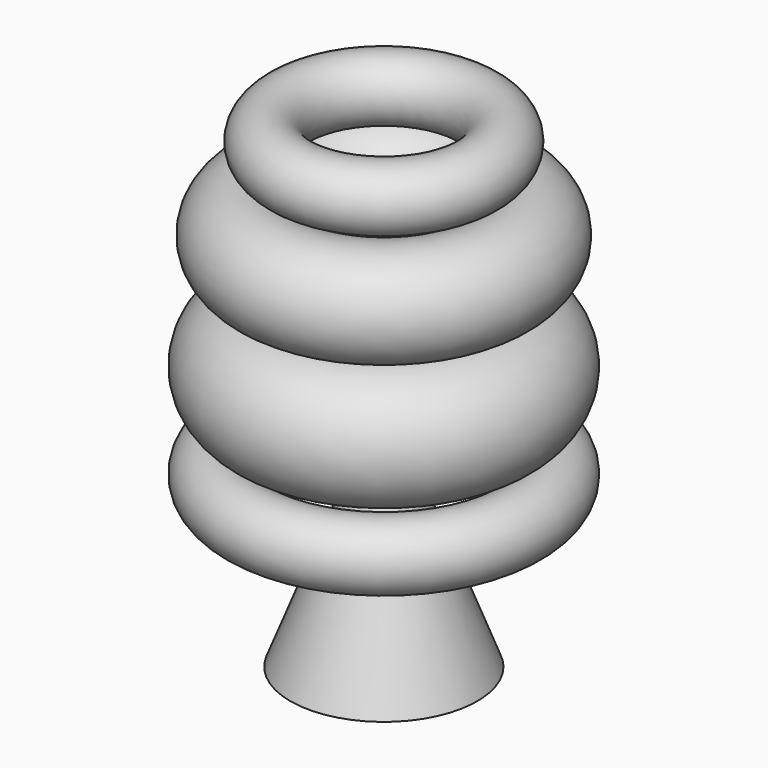
from build123d import *

# Parameters (mm, degrees)
F0_R = 200
F2_R = 105
F4_R = 160
F6_R = 100


with BuildPart() as f1:
    # F0 (on Front) → F1 (revolve)
    with BuildSketch(Plane.XZ):
        with Locations((-340, 0)):
            Circle(F0_R)
    revolve(axis=Axis((0, 0, 98.72999), (0, 0, 1)))


with BuildPart() as f3:
    # F2 (on Front) → F3 (revolve)
    with BuildSketch(Plane.XZ):
        with Locations((-435, -305)):
            Circle(F2_R)
    revolve(axis=Axis((0, 0, 98.72999), (0, 0, 1)))


with BuildPart() as f5:
    # F4 (on Front) → F5 (revolve)
    with BuildSketch(Plane.XZ):
        with Locations((-360, 370)):
            Circle(F4_R)
    revolve(axis=Axis((0, 0, 98.72999), (0, 0, 1)))


with BuildPart() as f7:
    # F6 (on Front) → F7 (revolve)
    with BuildSketch(Plane.XZ):
        with Locations((-300, 635)):
            Circle(F6_R)
    revolve(axis=Axis((0, 0, 98.72999), (0, 0, 1)))


with BuildPart() as f9:
    # F8 (on Front) → F9 (revolve)
    with BuildSketch(Plane.XZ):
        Polygon((0, -850), (0, 0), (-50, 0), (-50, -200), (-300, -850), align=None)
    revolve(axis=Axis((0, 0, -425), (0, 0, -1)))


solid = Compound([f1.part, f3.part, f5.part, f7.part, f9.part])
